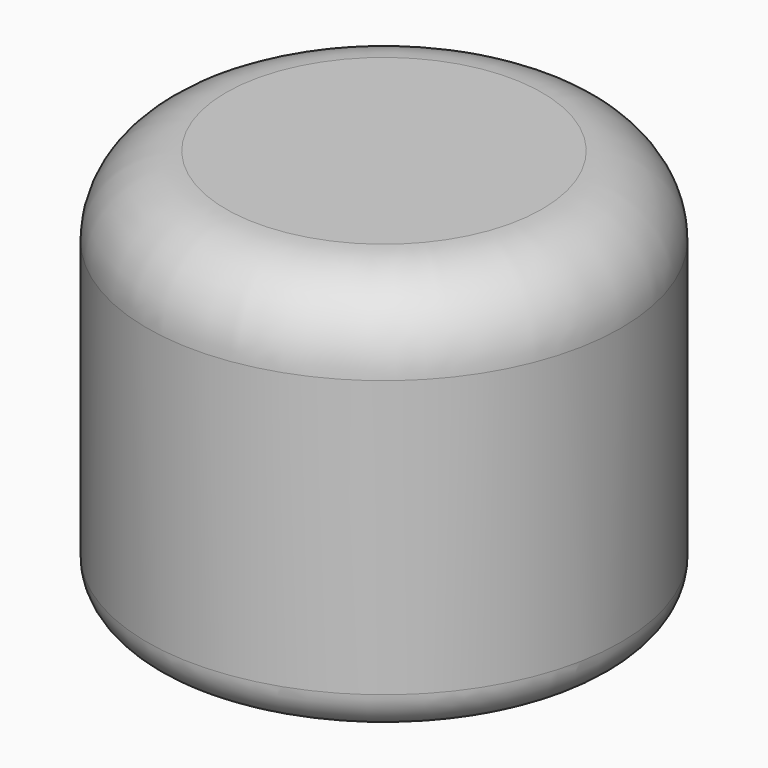
from build123d import *

# Parameters (mm, degrees)
F0_R     = 15
F1_DEPTH = 25
F2_R     = 5
F3_R     = 2.5
F4_DEPTH = 15


with BuildPart() as f1:
    # F0 (on Top) → F1 (new body)
    with BuildSketch(Plane.XY):
        Circle(F0_R)
        Polygon((-7.505553, 0), (-3.752777, 6.5), (3.752777, 6.5), (7.505553, 0), (3.752777, -6.5), (-3.752777, -6.5), align=None, mode=Mode.SUBTRACT)
        Polygon((3.752777, 6.5), (-3.752777, 6.5), (-7.505553, 0), (-3.752777, -6.5), (3.752777, -6.5), (7.505553, 0), align=None)
    extrude(amount=F1_DEPTH)

    # F2
    f2_edges = [f1.edges().sort_by_distance(p)[0] for p in [
        (-15, 0, 25),
    ]]
    fillet(f2_edges, radius=F2_R)

    # F3
    f3_edges = [f1.edges().sort_by_distance(p)[0] for p in [
        (-15, 0, 0),
    ]]
    fillet(f3_edges, radius=F3_R)

    # F0 (on Top) → F4 (cut)
    with BuildSketch(Plane.XY):
        Polygon((3.752777, 6.5), (-3.752777, 6.5), (-7.505553, 0), (-3.752777, -6.5), (3.752777, -6.5), (7.505553, 0), align=None)
    extrude(amount=F4_DEPTH, mode=Mode.SUBTRACT)


solid = f1.part
